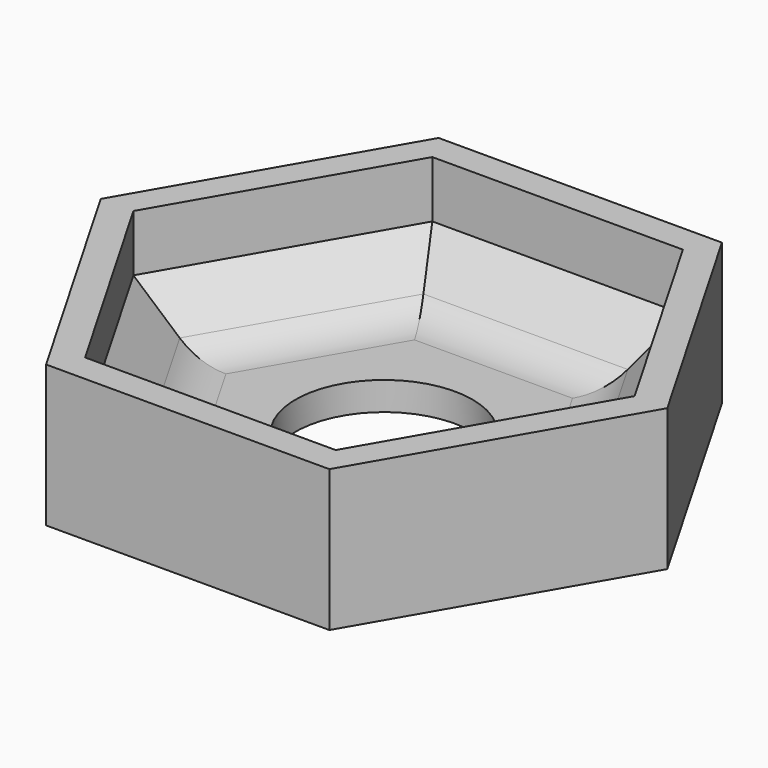
from build123d import *

# Parameters (mm, degrees)
F1_DEPTH = 25.4
F2_T     = -5.08
F3_SIZE  = 10.16
F4_R     = 10.16
F5_R     = 15.875
F6_DEPTH = 25.4


with BuildPart() as f1:
    # F0 (on Top) → F1 (new body)
    with BuildSketch(Plane.XY):
        Polygon((25.4, 43.9940905122), (-25.4, 43.9940905122), (-50.8, 0), (-25.4, -43.9940905122), (25.4, -43.9940905122), (50.8, 0), align=None)
    extrude(amount=F1_DEPTH)

    # F2
    f2_openings = [f1.faces().sort_by_distance(p)[0] for p in [
        (0, 0, 25.4),
    ]]
    offset(amount=F2_T, openings=f2_openings)

    # F3
    f3_edges = [f1.edges().sort_by_distance(p)[0] for p in [
        (0, 38.914091, 5.08),
        (33.700591, 19.457045, 5.08),
        (-33.700591, 19.457045, 5.08),
        (-33.700591, -19.457045, 5.08),
        (0, -38.914091, 5.08),
        (33.700591, -19.457045, 5.08),
    ]]
    chamfer(f3_edges, length=F3_SIZE)

    # F4
    f4_edges = [f1.edges().sort_by_distance(p)[0] for p in [
        (0, 28.754091, 5.08),
        (24.901773, 14.377045, 5.08),
        (-24.901773, 14.377045, 5.08),
        (24.901773, -14.377045, 5.08),
        (-24.901773, -14.377045, 5.08),
        (0, -28.754091, 5.08),
    ]]
    fillet(f4_edges, radius=F4_R)

    # F5 (on face) → F6 (cut)
    with BuildSketch(Plane.XY.offset(5.08)):
        Circle(F5_R)
    extrude(amount=-F6_DEPTH, mode=Mode.SUBTRACT)


solid = f1.part
